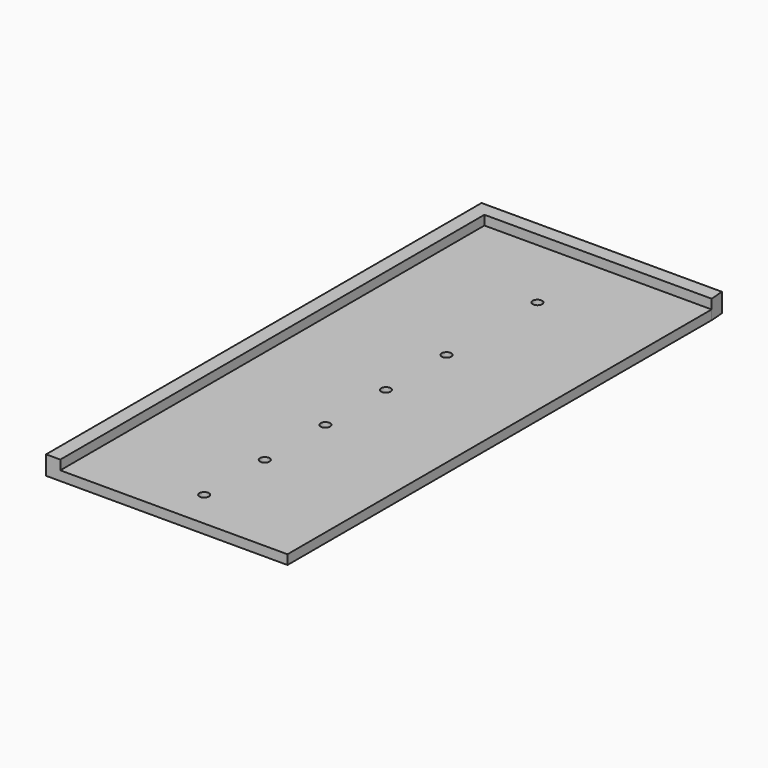
from build123d import *

# Parameters (mm, degrees)
F1_DEPTH = 6.35
F0_W     = 76.2
F0_H     = 177.8
F0_R     = 1.5875
F2_DEPTH = 3.175


with BuildPart() as f1:
    # F0 (on Top) → F1 (new body)
    with BuildSketch(Plane.XY):
        Polygon((-48.031077, -87.209692), (-43.268577, -87.209692), (-43.268577, 90.590308), (32.931423, 90.590308), (32.582261, 95.339991), (-48.031077, 95.339991), align=None)
    extrude(amount=F1_DEPTH)

    # F0 (on Top) → F2 (join)
    with BuildSketch(Plane.XY):
        with Locations((-5.168577, 1.690308)):
            Rectangle(F0_W, F0_H)
        with Locations((-5.168577, -74.509692)):
            Circle(F0_R, mode=Mode.SUBTRACT)
        with Locations((-5.168577, -49.109692)):
            Circle(F0_R, mode=Mode.SUBTRACT)
        with Locations((-5.168577, -23.709692)):
            Circle(F0_R, mode=Mode.SUBTRACT)
        with Locations((-5.168577, 1.690308)):
            Circle(F0_R, mode=Mode.SUBTRACT)
        with Locations((-5.168577, 27.090308)):
            Circle(F0_R, mode=Mode.SUBTRACT)
        with Locations((-5.168577, 65.190308)):
            Circle(F0_R, mode=Mode.SUBTRACT)
        Polygon((-48.031077, -87.209692), (-43.268577, -87.209692), (-43.268577, 90.590308), (32.931423, 90.590308), (32.582261, 95.339991), (-48.031077, 95.339991), align=None)
    extrude(amount=F2_DEPTH)


solid = f1.part
